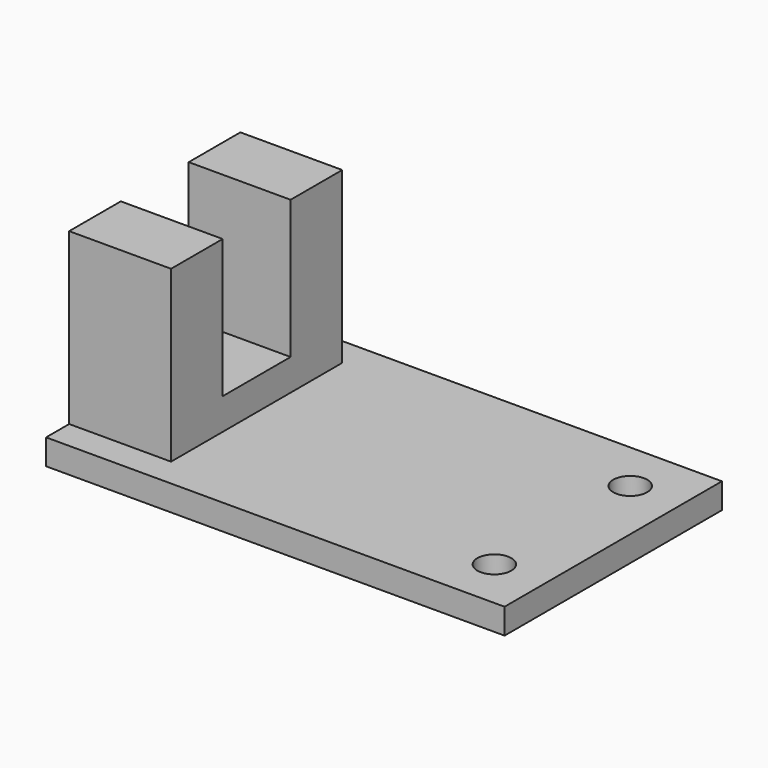
from build123d import *

# Parameters (mm, degrees)
PAD042_DEPTH             = 3
CLONE021_PLACEMENT_ANGLE = 90
CYLINDER1056_R           = 1
CYLINDER1056_DEPTH       = 5
CYLINDER1057_R           = 1
CYLINDER1057_DEPTH       = 5
BOX265_W                 = 27
BOX265_H                 = 16
BOX265_DEPTH             = 1.5


with BuildPart() as obj1:
    # Sketch067 → Pad042 (new body, symmetric)
    with BuildSketch(Plane(origin=(13, 8, 1.5), x_dir=(0, 0, 1), z_dir=(0, -1, 0))):
        Polygon((0, 0), (10, 0), (10, 3.8), (1.85, 3.8), (1.85, 8.8), (10, 8.8), (10, 12.6), (0, 12.6), align=None)
    extrude(amount=PAD042_DEPTH, both=True)


with BuildPart() as obj1_1:
    # Clone021 placement: moved
    add(obj1.part.moved(Location((11, 1.3, 0))).rotate(Axis((11, 1.3, 0), (0, 0, 1)), CLONE021_PLACEMENT_ANGLE))


with BuildPart() as cylinder1094:
    # Cylinder1056 → Cylinder1056 (new body)
    with BuildSketch(Plane(origin=(24, 3, 0), x_dir=(1, 0, 0), z_dir=(0, 0, 1))):
        Circle(CYLINDER1056_R)
    extrude(amount=CYLINDER1056_DEPTH)


with BuildPart() as fusion153:
    # Cylinder1057 → Cylinder1057 (new body)
    with BuildSketch(Plane(origin=(24, 13, 0), x_dir=(1, 0, 0), z_dir=(0, 0, 1))):
        Circle(CYLINDER1057_R)
    extrude(amount=CYLINDER1057_DEPTH)

    # Fusion153: union Cylinder1094
    add(cylinder1094.part)


with BuildPart() as obj2:
    # Box265 → Box265 (new body)
    with BuildSketch(Plane.XY):
        with Locations((13.5, 8)):
            Rectangle(BOX265_W, BOX265_H)
    extrude(amount=BOX265_DEPTH)

    # Cut137: cut Fusion153
    add(fusion153.part, mode=Mode.SUBTRACT)

    # Fusion: union obj1
    add(obj1_1.part)


solid = obj2.part
